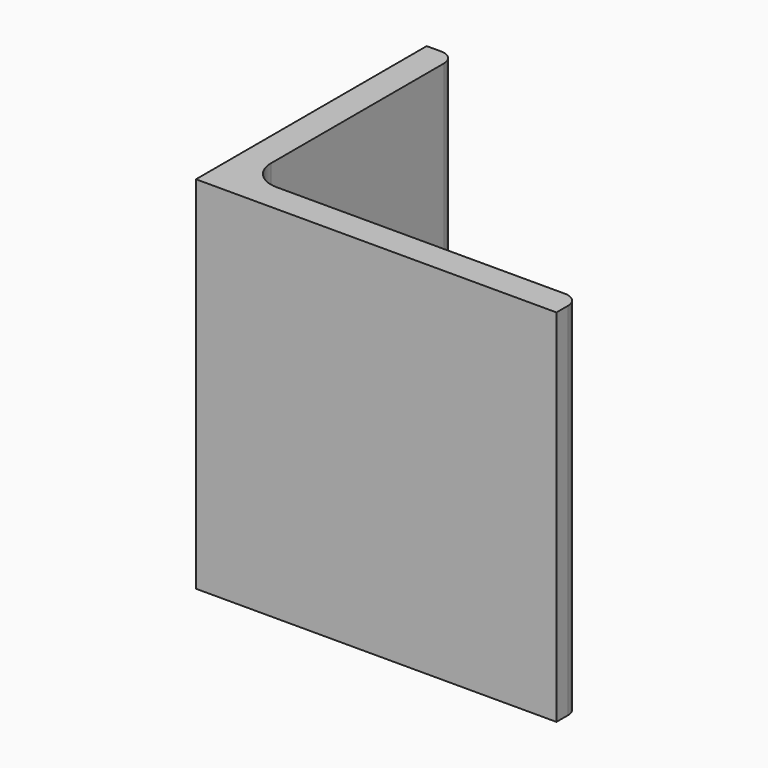
from build123d import *

# Parameters (mm, degrees)
EXTRUDE_DEPTH = 50


with BuildPart() as part:
    # Sketch → Extrude (new body)
    with BuildSketch(Plane.XY):
        with BuildLine():
            Line((0, 0), (50, 0))
            Line((50, 0), (50, 2))
            ThreePointArc((50, 2), (49.414214, 3.414214), (48, 4))
            Line((48, 4), (8, 4))
            ThreePointArc((4, 8), (5.171573, 5.171573), (8, 4))
            Line((4, 38), (4, 8))
            ThreePointArc((4, 38), (3.414214, 39.414214), (2, 40))
            Line((0, 40), (2, 40))
            Line((0, 0), (0, 40))
        make_face()
    extrude(amount=EXTRUDE_DEPTH)


solid = part.part
